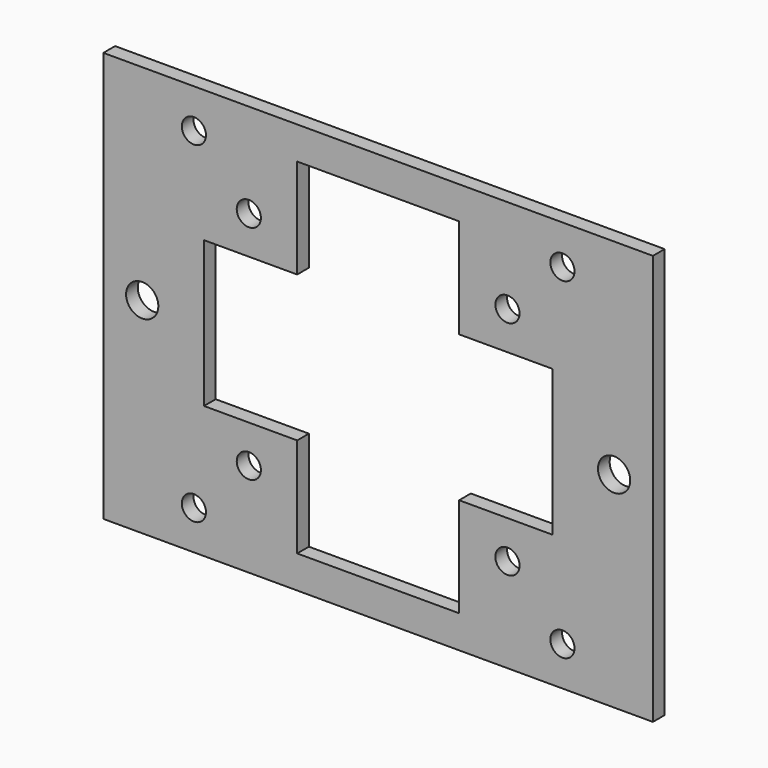
from build123d import *

# Parameters (mm, degrees)
F0_W      = 75
F0_H      = 56
F1_DEPTH  = 2
F3_D      = 4.4
F5_D      = 3.3
F7_D      = 3.3
F8_W      = 47.5419834256
F8_H      = 19.9280381203
F9_DEPTH  = 25
F10_W     = 22.1011936665
F10_H     = 47.0907129347
F11_DEPTH = 25


with BuildPart() as f1:
    # F0 (on Front) → F1 (new body)
    with BuildSketch(Plane.XZ):
        Rectangle(F0_W, F0_H)
    extrude(amount=F1_DEPTH)

    # F3 (through all)
    with Locations(Plane.XZ.offset(2)):
        with Locations((-32.2, 0), (32.2, 0)):
            Hole(F3_D / 2)

    # F5 (through all)
    with Locations(Plane.XZ.offset(2)):
        with Locations((-25.15, 22.65), (-25.15, -22.65), (25.15, -22.65), (25.15, 22.65)):
            Hole(F5_D / 2)

    # F7 (through all)
    with Locations(Plane.XZ.offset(2)):
        with Locations((-17.65, 15.15), (-17.65, -15.15), (17.65, -15.15), (17.65, 15.15)):
            Hole(F7_D / 2)

    # F8 (on face) → F9 (cut)
    with BuildSketch(Plane.XZ.offset(2)):
        Rectangle(F8_W, F8_H)
    extrude(amount=-F9_DEPTH, mode=Mode.SUBTRACT)

    # F10 (on face) → F11 (cut)
    with BuildSketch(Plane.XZ.offset(2)):
        Rectangle(F10_W, F10_H)
    extrude(amount=-F11_DEPTH, mode=Mode.SUBTRACT)


solid = f1.part
